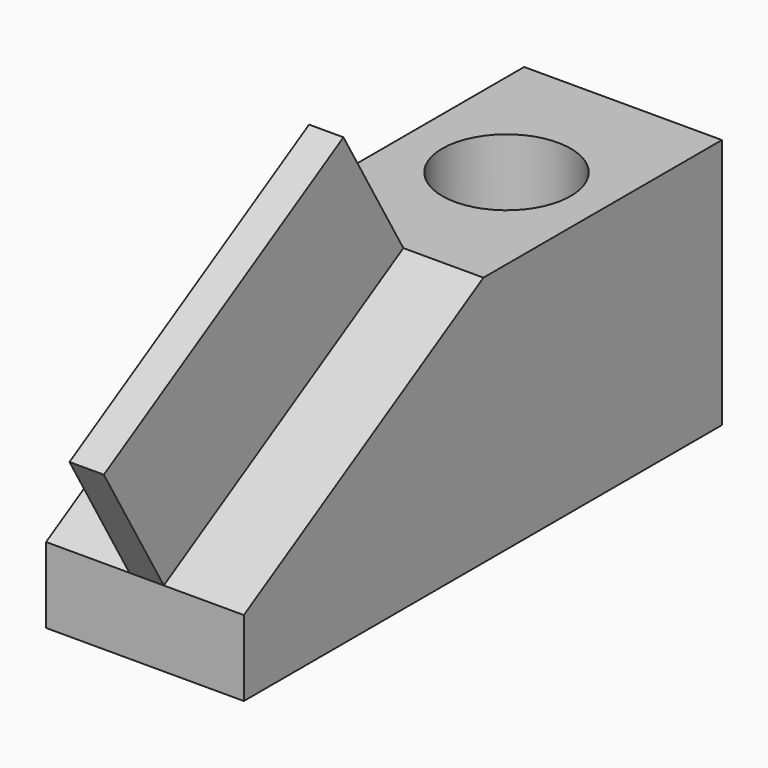
from build123d import *

# Parameters (mm, degrees)
F0_W     = 14.3263228238
F0_H     = 64.4684862345
F0_W_2   = 16.372948885
F0_W_3   = 15.3496470302
F0_W_4   = 24.5594233274
F0_H_2   = 19.4428749382
F1_DEPTH = 50.8
F2_W     = 8.8241882622
F2_H     = 89.1295920778
F3_DEPTH = 38.1
F5_D     = 33.02


with BuildPart() as f1:
    # F0 (on Right) → F1 (new body)
    with BuildSketch(Plane.YZ):
        with Locations((69.4126244634, -3.0189463869)):
            Rectangle(F0_W, F0_H)
        with Locations((54.0629886091, -3.0189463869)):
            Rectangle(F0_W_2, F0_H)
        with Locations((38.2016906515, -3.0189463869)):
            Rectangle(F0_W_3, F0_H)
        Polygon((30.5268671364, -35.2531895041), (30.5268671364, 29.2152967304), (0, 29.2152967304), (0, -15.8103145659), (-52.3611754179, -15.8103145659), (-52.3611754179, -35.2531895041), align=None)
        Polygon((0, -15.8103145659), (0, 29.2152967304), (-76.9205987453, -15.8103145659), (-52.3611754179, -15.8103145659), align=None)
        with Locations((-64.6408870816, -25.531752035)):
            Rectangle(F0_W_4, F0_H_2)
    extrude(amount=F1_DEPTH)

    # F2 (on face) → F3 (join)
    with BuildSketch(Plane(origin=(0, -12.7370466018, 21.7596435151), x_dir=(1, 0, 0), z_dir=(0, -0.5051701713, 0.8630197553))):
        with Locations((25.8237272501, -29.8060995855)):
            Rectangle(F2_W, F2_H)
    extrude(amount=F3_DEPTH)

    # F5 (through all)
    with Locations(Plane.XY.offset(29.2152967304)):
        with Locations((25.8237272501, 38.6297218502)):
            Hole(F5_D / 2)


solid = f1.part
